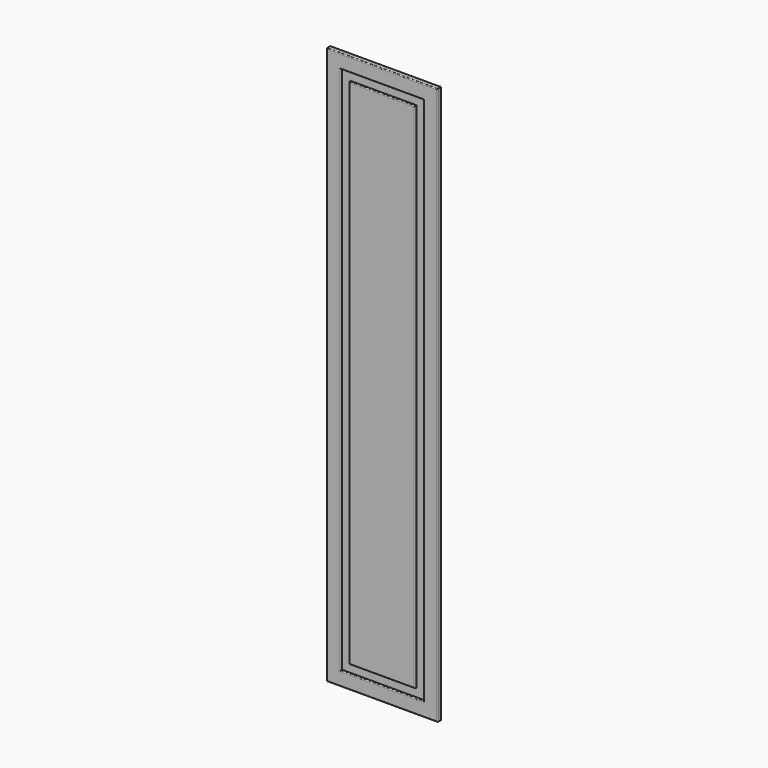
from build123d import *

# Parameters (mm, degrees)
F0_W      = 44.656470418
F0_H      = 33.8078811765
F1_DEPTH  = 16
F2_DEPTH  = 796
F3_DEPTH  = 196
F4_W      = 68.9578056335
F4_H      = 493.6993122101
F5_DEPTH  = 7
F6_DEPTH  = 9.7
F7_DEPTH  = 99.33
F8_DEPTH  = 99.33
F9_DEPTH  = 17.34
F10_DEPTH = 102.97
F11_W     = 35.2807044983
F11_H     = 492.0964837074
F12_DEPTH = 7
F13_DEPTH = 37.27
F14_DEPTH = 6.58
F15_DEPTH = 106.63
F16_DEPTH = 5.87
F17_DEPTH = 200
F18_DEPTH = 200
F19_DEPTH = 200
F20_DEPTH = 200
F21_DEPTH = 200
F22_DEPTH = 200
F23_DEPTH = 400
F24_DEPTH = 400
F25_DEPTH = 400
F26_DEPTH = 400
F27_DEPTH = 400
F28_DEPTH = 400
F29_DEPTH = 400
F30_DEPTH = 400
F31_DEPTH = 400
F32_DEPTH = 1000
F33_DEPTH = 1000
F34_DEPTH = 1000
F35_DEPTH = 1000
F36_DEPTH = 1000
F37_DEPTH = 1000
F38_DEPTH = 600
F39_DEPTH = 600
F40_DEPTH = 600
F41_R     = 3


with BuildPart() as f1:
    # F0 (on Front) → F1 (new body)
    with BuildSketch(Plane.XZ):
        with Locations((22.328235209, 16.9039405882)):
            Rectangle(F0_W, F0_H)
    extrude(amount=F1_DEPTH)

    # F2 (add): a face of the model
    f2_faces = [f1.faces().sort_by_distance(p)[0] for p in [
        (22.328235209, -8, 0),
    ]]
    extrude(f2_faces, amount=-F2_DEPTH)

    # F3 (add): a face of the model
    f3_faces = [f1.faces().sort_by_distance(p)[0] for p in [
        (0, -8, 398),
    ]]
    extrude(f3_faces, amount=-F3_DEPTH)

    # F4 (on face) → F5 (cut)
    with BuildSketch(Plane.XZ.offset(16)):
        with Locations((94.1769480705, 399.8196721077)):
            Rectangle(F4_W, F4_H)
    extrude(amount=-F5_DEPTH, mode=Mode.SUBTRACT)

    # F6 (cut): a face of the model
    f6_faces = [f1.faces().sort_by_distance(p)[0] for p in [
        (59.6980452538, -12.5, 399.8196721077),
    ]]
    extrude(f6_faces, amount=-F6_DEPTH, mode=Mode.SUBTRACT)

    # F7 (add): a face of the model
    f7_faces = [f1.faces().sort_by_distance(p)[0] for p in [
        (89.3269480705, -12.5, 646.6693282127),
    ]]
    extrude(f7_faces, amount=-F7_DEPTH)

    # F8 (cut): a face of the model
    f8_faces = [f1.faces().sort_by_distance(p)[0] for p in [
        (89.3269480705, -12.5, 646.6693282127),
    ]]
    extrude(f8_faces, amount=-F8_DEPTH, mode=Mode.SUBTRACT)

    # F9 (cut): a face of the model
    f9_faces = [f1.faces().sort_by_distance(p)[0] for p in [
        (128.6558508873, -12.5, 449.4846721077),
    ]]
    extrude(f9_faces, amount=-F9_DEPTH, mode=Mode.SUBTRACT)

    # F10 (cut): a face of the model
    f10_faces = [f1.faces().sort_by_distance(p)[0] for p in [
        (97.9969480705, -12.5, 152.9700160027),
    ]]
    extrude(f10_faces, amount=-F10_DEPTH, mode=Mode.SUBTRACT)

    # F11 (on face) → F12 (join)
    with BuildSketch(Plane.XZ.offset(9)):
        with Locations((91.7714834213, 432.6795041561)):
            Rectangle(F11_W, F11_H)
    extrude(amount=F12_DEPTH)

    # F13 (add): a face of the model
    f13_faces = [f1.faces().sort_by_distance(p)[0] for p in [
        (91.7714834213, -12.5, 678.7277460098),
    ]]
    extrude(f13_faces, amount=F13_DEPTH)

    # F14 (add): a face of the model
    f14_faces = [f1.faces().sort_by_distance(p)[0] for p in [
        (109.4118356705, -12.5, 451.3145041561),
    ]]
    extrude(f14_faces, amount=F14_DEPTH)

    # F15 (add): a face of the model
    f15_faces = [f1.faces().sort_by_distance(p)[0] for p in [
        (95.0614834213, -12.5, 186.6312623024),
    ]]
    extrude(f15_faces, amount=F15_DEPTH)

    # F16 (cut): a face of the model
    f16_faces = [f1.faces().sort_by_distance(p)[0] for p in [
        (74.1311311722, -12.5, 397.9995041561),
    ]]
    extrude(f16_faces, amount=-F16_DEPTH, mode=Mode.SUBTRACT)

    # F17 (add): a face of the model
    f17_faces = [f1.faces().sort_by_distance(p)[0] for p in [
        (196, -8, 398),
    ]]
    extrude(f17_faces, amount=F17_DEPTH)

    # F18 (cut): a face of the model
    f18_faces = [f1.faces().sort_by_distance(p)[0] for p in [
        (145.9958508873, -12.5, 397.9996721077),
    ]]
    extrude(f18_faces, amount=-F18_DEPTH, mode=Mode.SUBTRACT)

    # F19 (add): a face of the model
    f19_faces = [f1.faces().sort_by_distance(p)[0] for p in [
        (115.9918356705, -12.5, 397.9995041561),
    ]]
    extrude(f19_faces, amount=F19_DEPTH)

    # F20 (add): a face of the model
    f20_faces = [f1.faces().sort_by_distance(p)[0] for p in [
        (396, -8, 398),
    ]]
    extrude(f20_faces, amount=F20_DEPTH)

    # F21 (cut): a face of the model
    f21_faces = [f1.faces().sort_by_distance(p)[0] for p in [
        (345.9958508873, -12.5, 397.9996721077),
    ]]
    extrude(f21_faces, amount=-F21_DEPTH, mode=Mode.SUBTRACT)

    # F22 (add): a face of the model
    f22_faces = [f1.faces().sort_by_distance(p)[0] for p in [
        (315.9918356705, -12.5, 397.9995041561),
    ]]
    extrude(f22_faces, amount=F22_DEPTH)

    # F23 (add): a face of the model
    f23_faces = [f1.faces().sort_by_distance(p)[0] for p in [
        (596, -8, 398),
    ]]
    extrude(f23_faces, amount=F23_DEPTH)

    # F24 (cut): a face of the model
    f24_faces = [f1.faces().sort_by_distance(p)[0] for p in [
        (545.9958508873, -12.5, 397.9996721077),
    ]]
    extrude(f24_faces, amount=-F24_DEPTH, mode=Mode.SUBTRACT)

    # F25 (add): a face of the model
    f25_faces = [f1.faces().sort_by_distance(p)[0] for p in [
        (515.9918356705, -12.5, 397.9995041561),
    ]]
    extrude(f25_faces, amount=F25_DEPTH)

    # F26 (cut): a face of the model
    f26_faces = [f1.faces().sort_by_distance(p)[0] for p in [
        (497.9964834213, -12.5, 80.0012623024),
    ]]
    extrude(f26_faces, amount=-F26_DEPTH, mode=Mode.SUBTRACT)

    # F27 (add): a face of the model
    f27_faces = [f1.faces().sort_by_distance(p)[0] for p in [
        (497.9969480705, -12.5, 50.0000160027),
    ]]
    extrude(f27_faces, amount=F27_DEPTH)

    # F28 (cut): a face of the model
    f28_faces = [f1.faces().sort_by_distance(p)[0] for p in [
        (498, -8, 0),
    ]]
    extrude(f28_faces, amount=-F28_DEPTH, mode=Mode.SUBTRACT)

    # F29 (add): a face of the model
    f29_faces = [f1.faces().sort_by_distance(p)[0] for p in [
        (996, -8, 598),
    ]]
    extrude(f29_faces, amount=F29_DEPTH)

    # F30 (cut): a face of the model
    f30_faces = [f1.faces().sort_by_distance(p)[0] for p in [
        (945.9958508873, -12.5, 597.9996721077),
    ]]
    extrude(f30_faces, amount=-F30_DEPTH, mode=Mode.SUBTRACT)

    # F31 (add): a face of the model
    f31_faces = [f1.faces().sort_by_distance(p)[0] for p in [
        (915.9918356705, -12.5, 597.9995041561),
    ]]
    extrude(f31_faces, amount=F31_DEPTH)

    # F32 (cut): a face of the model
    f32_faces = [f1.faces().sort_by_distance(p)[0] for p in [
        (1315.9918356705, -12.5, 597.9995041561),
    ]]
    extrude(f32_faces, amount=-F32_DEPTH, mode=Mode.SUBTRACT)

    # F33 (add): a face of the model
    f33_faces = [f1.faces().sort_by_distance(p)[0] for p in [
        (1345.9958508873, -12.5, 597.9996721077),
    ]]
    extrude(f33_faces, amount=F33_DEPTH)

    # F34 (cut): a face of the model
    f34_faces = [f1.faces().sort_by_distance(p)[0] for p in [
        (1396, -8, 598),
    ]]
    extrude(f34_faces, amount=-F34_DEPTH, mode=Mode.SUBTRACT)

    # F35 (add): a face of the model
    f35_faces = [f1.faces().sort_by_distance(p)[0] for p in [
        (198, -8, 796),
    ]]
    extrude(f35_faces, amount=F35_DEPTH)

    # F36 (cut): a face of the model
    f36_faces = [f1.faces().sort_by_distance(p)[0] for p in [
        (197.9969480705, -12.5, 745.9993282127),
    ]]
    extrude(f36_faces, amount=-F36_DEPTH, mode=Mode.SUBTRACT)

    # F37 (add): a face of the model
    f37_faces = [f1.faces().sort_by_distance(p)[0] for p in [
        (197.9964834213, -12.5, 715.9977460098),
    ]]
    extrude(f37_faces, amount=F37_DEPTH)

    # F38 (add): a face of the model
    f38_faces = [f1.faces().sort_by_distance(p)[0] for p in [
        (198, -8, 1796),
    ]]
    extrude(f38_faces, amount=F38_DEPTH)

    # F39 (cut): a face of the model
    f39_faces = [f1.faces().sort_by_distance(p)[0] for p in [
        (197.9969480705, -12.5, 1745.9993282127),
    ]]
    extrude(f39_faces, amount=-F39_DEPTH, mode=Mode.SUBTRACT)

    # F40 (add): a face of the model
    f40_faces = [f1.faces().sort_by_distance(p)[0] for p in [
        (197.9964834213, -12.5, 1715.9977460098),
    ]]
    extrude(f40_faces, amount=F40_DEPTH)

    # F41
    f41_edges = [f1.edges().sort_by_distance(p)[0] for p in [
        (197.996483, -16, 2315.997746),
        (315.991836, -16, 1397.999504),
        (197.996483, -16, 480.001262),
        (80.001131, -16, 1397.999504),
        (0, -16, 1398),
        (198, -16, 400),
        (396, -16, 1398),
        (198, -16, 2396),
        (345.995851, -16, 1397.999672),
        (197.996948, -16, 450.000016),
        (49.998045, -16, 1397.999672),
        (197.996948, -16, 2345.999328),
    ]]
    fillet(f41_edges, radius=F41_R)


solid = f1.part
